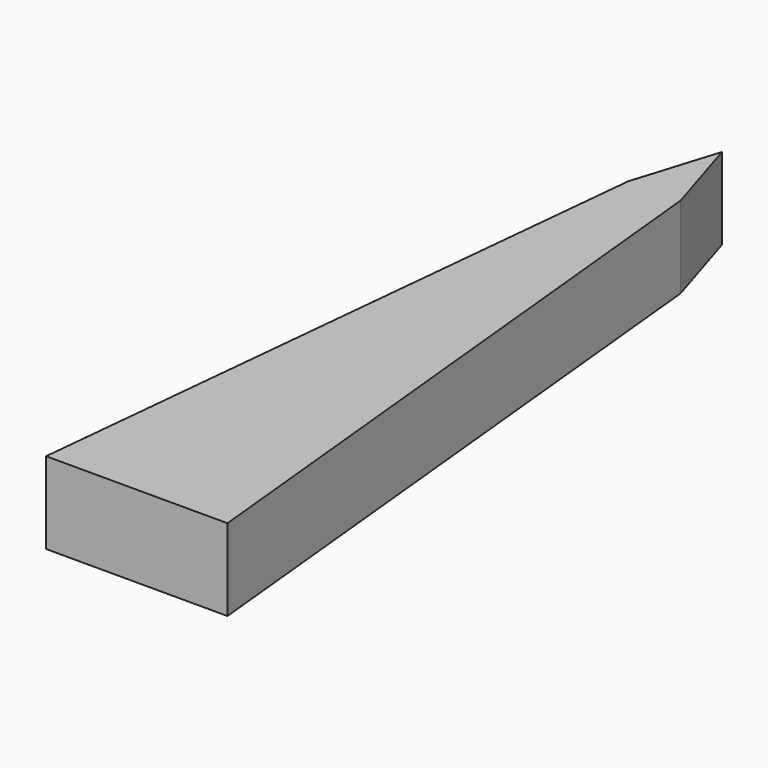
from build123d import *

# Parameters (mm, degrees)
F1_DEPTH = 25
F2_DEPTH = 10


with BuildPart() as f1:
    # F0 (on Top) → F1 (new body)
    with BuildSketch(Plane.XY):
        Polygon((19.75, 198), (27.75, 198), (35.75, 198), (27.75, 223.787594), align=None)
        Polygon((35.75, 198), (27.75, 198), (19.75, 198), (0, 0), (55.5, 0), align=None)
    extrude(amount=F1_DEPTH)

    # F0 (on Top) → F2 (join)
    with BuildSketch(Plane.XY):
        Polygon((19.75, 198), (27.75, 198), (35.75, 198), (27.75, 223.787594), align=None)
        Polygon((35.75, 198), (27.75, 198), (19.75, 198), (0, 0), (55.5, 0), align=None)
    extrude(amount=F2_DEPTH)


solid = f1.part
